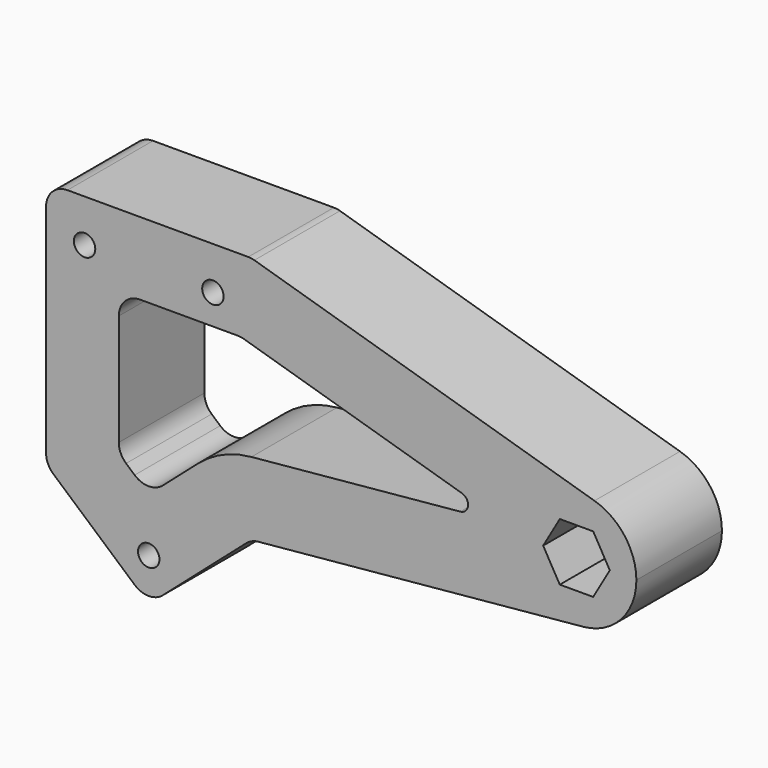
from build123d import *

# Parameters (mm, degrees)
F0_W      = 48
F0_H      = 58
F0_R      = 2.5
F0_W_2    = 90
F1_DEPTH  = 25
F3_DEPTH  = 16
F5_D      = 10.5
F7_DEPTH  = 25
F8_R      = 2.5
F9_DEPTH  = 3.5
F10_R     = 5
F12_DEPTH = 25.001
F13_R     = 5
F14_R     = 2


with BuildPart() as f1:
    # F0 (on Front) → F1 (new body)
    with BuildSketch(Plane.XZ):
        Rectangle(F0_W, F0_H)
        with Locations((-15, 19)):
            Circle(F0_R, mode=Mode.SUBTRACT)
        with Locations((15, 19)):
            Circle(F0_R, mode=Mode.SUBTRACT)
        with Locations((69, 0)):
            Rectangle(F0_W_2, F0_H)
        Polygon((24, -29), (-24, -29), (0, -50), align=None)
        with Locations((0, -40)):
            Circle(F0_R, mode=Mode.SUBTRACT)
    extrude(amount=F1_DEPTH)

    # F2 (on face) → F3 (cut)
    with BuildSketch(Plane.XZ.offset(25)):
        Polygon((96.102885683, -14.75), (103.897114317, -14.75), (107.7942286341, -8), (103.897114317, -1.25), (96.102885683, -1.25), (92.2057713659, -8), align=None)
    extrude(amount=-F3_DEPTH, mode=Mode.SUBTRACT)

    # F5 (through all)
    with Locations(Plane.XZ.offset(9)):
        with Locations((100.2942286341, -8)):
            Hole(F5_D / 2)

    # F6 (on face) → F7 (cut)
    with BuildSketch(Plane.XZ.offset(25)):
        with BuildLine():
            Line((114, 29), (24, 29))
            Line((24, 29), (104.2028684125, 5.1366169092))
            ThreePointArc((104.2028684125, 5.1366169092), (111.2810182281, 0.1938161532), (114, -7.9999999449))
            Line((114, -7.9999999449), (114, 29))
        make_face()
        with BuildLine():
            Line((114, -29), (114, -7.9999999449))
            ThreePointArc((114, -7.9999999449), (110.432692445, -17.222782676), (101.5877514086, -21.6445948114))
            Line((101.5877514086, -21.6445948114), (24, -29))
            Line((24, -29), (114, -29))
        make_face()
    extrude(amount=-F7_DEPTH, mode=Mode.SUBTRACT)

    # F8 (on face) → F9 (cut)
    with BuildSketch(Plane(origin=(0, 0, 0), x_dir=(-1, 0, 0), z_dir=(0, 1, 0))):
        Polygon((12.8349364905, 15.25), (17.1650635095, 15.25), (19.3301270189, 19), (17.1650635095, 22.75), (12.8349364905, 22.75), (10.6698729811, 19), align=None)
        with Locations((15, 19)):
            Circle(F8_R, mode=Mode.SUBTRACT)
        Polygon((-17.1650635095, 15.25), (-12.8349364905, 15.25), (-10.6698729811, 19), (-12.8349364905, 22.75), (-17.1650635095, 22.75), (-19.3301270189, 19), align=None)
        with Locations((-15, 19)):
            Circle(F8_R, mode=Mode.SUBTRACT)
        Polygon((-3.75, -42.1650635095), (0, -44.3301270189), (3.75, -42.1650635095), (3.75, -37.8349364905), (0, -35.6698729811), (-3.75, -37.8349364905), align=None)
        with Locations((0, -40)):
            Circle(F8_R, mode=Mode.SUBTRACT)
    extrude(amount=-F9_DEPTH, mode=Mode.SUBTRACT)

    # F10
    f10_edges = [f1.edges().sort_by_distance(p)[0] for p in [
        (-24, -12.5, 29),
        (24, -12.5, 29),
        (-24, -12.5, -29),
        (0, -12.5, -50),
        (24, -12.5, -29),
    ]]
    fillet(f10_edges, radius=F10_R)

    # F11 (on face) → F12 (cut, through all)
    with BuildSketch(Plane.XZ.offset(25)):
        with BuildLine():
            ThreePointArc((11.5911164871, -17.2687132217), (17.375962187, -13.6196897729), (24.0019026876, -11.9235988601))
            Line((24.0019026876, -11.9235988601), (83.1000312878, -6.3210304927))
            Line((83.1000312878, -6.3210304927), (21.5245542404, 12))
            Line((21.5245542404, 12), (-7, 12))
            Line((-7, 12), (-7, -21.2859401479))
            Line((-7, -21.2859401479), (0, -27.4109401479))
            Line((0, -27.4109401479), (11.5911164871, -17.2687132217))
        make_face()
    extrude(amount=-F12_DEPTH, mode=Mode.SUBTRACT)

    # F13
    f13_edges = [f1.edges().sort_by_distance(p)[0] for p in [
        (-7, -12.5, 12),
        (21.524554, -12.5, 12),
        (0, -12.5, -27.41094),
        (-7, -12.5, -21.28594),
    ]]
    fillet(f13_edges, radius=F13_R)

    # F14
    f14_edges = [f1.edges().sort_by_distance(p)[0] for p in [
        (83.100031, -12.5, -6.32103),
    ]]
    fillet(f14_edges, radius=F14_R)


solid = f1.part
